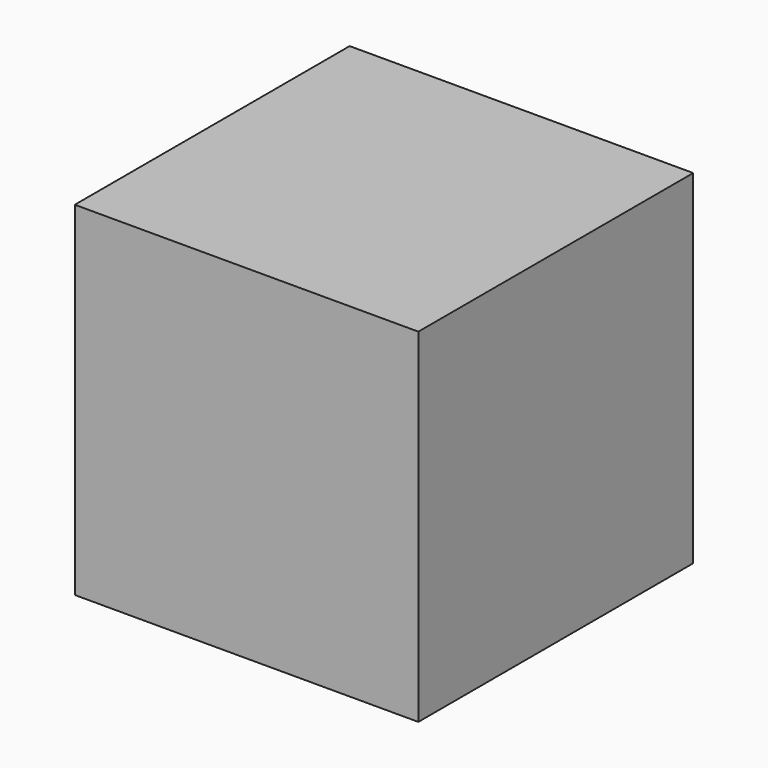
from build123d import *

# Parameters (mm, degrees)
SKETCH_W  = 10
SKETCH_H  = 10
PAD_DEPTH = 10


with BuildPart() as part:
    # Sketch → Pad (new body)
    with BuildSketch(Plane.XY):
        Rectangle(SKETCH_W, SKETCH_H)
    extrude(amount=PAD_DEPTH)


solid = part.part
